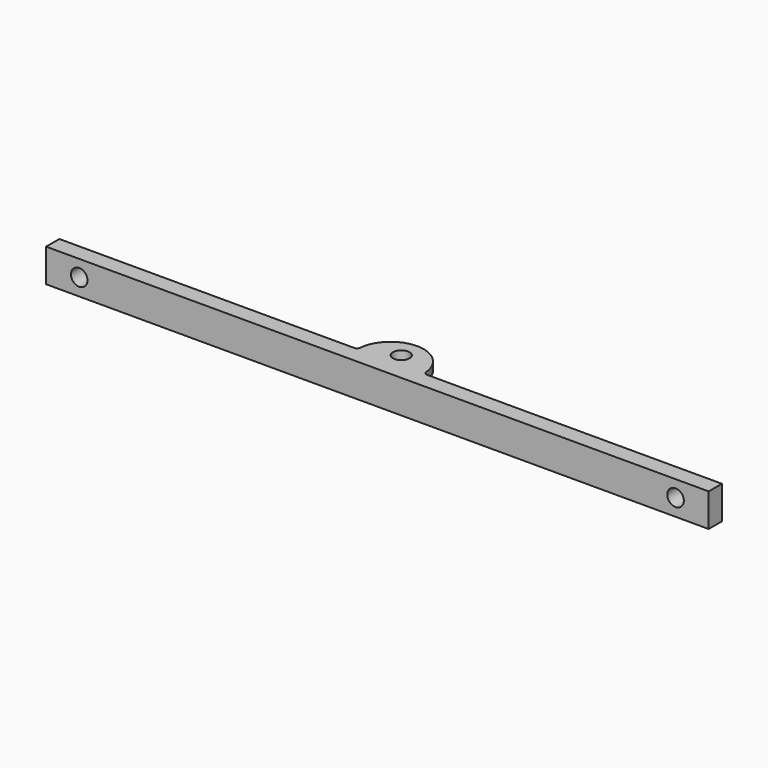
from build123d import *

# Parameters (mm, degrees)
F1_DEPTH = 25.4
F2_R     = 6.35
F3_DEPTH = 25.401
F4_W     = 41.7305262923
F4_H     = 12.7
F5_DEPTH = 508.001
F6_R     = 2.54
F7_R     = 6.35
F8_DEPTH = 38.101


with BuildPart() as f1:
    # F0 (on Top) → F1 (new body)
    with BuildSketch(Plane.XY):
        Polygon((-254, -6.35), (254, -6.35), (254, 6.35), (25.4, 6.35), (-25.4, 6.35), (-254, 6.35), align=None)
        with BuildLine():
            Line((-25.4, 6.35), (25.4, 6.35))
            ThreePointArc((25.4, 6.35), (0, 31.75), (-25.4, 6.35))
        make_face()
    extrude(amount=F1_DEPTH)

    # F2 (on face) → F3 (cut, through all)
    with BuildSketch(Plane.XY.offset(25.4)):
        with Locations((0, 16.51)):
            Circle(F2_R)
    extrude(amount=-F3_DEPTH, mode=Mode.SUBTRACT)

    # F4 (on face) → F5 (cut, through all)
    with BuildSketch(Plane(origin=(-254, 0, 0), x_dir=(0, -1, 0), z_dir=(-1, 0, 0))):
        with Locations((-27.2152631462, 12.7)):
            Rectangle(F4_W, F4_H)
    extrude(amount=-F5_DEPTH, mode=Mode.SUBTRACT)

    # F6
    f6_edges = [f1.edges().sort_by_distance(p)[0] for p in [
        (-25.4, 6.35, 3.175),
        (-25.4, 6.35, 22.225),
        (25.4, 6.35, 22.225),
        (25.4, 6.35, 3.175),
    ]]
    fillet(f6_edges, radius=F6_R)

    # F7 (on face) → F8 (cut, through all)
    with BuildSketch(Plane.XZ.offset(6.35)):
        with Locations((-228.6, 12.921767283)):
            Circle(F7_R)
        with Locations((228.6, 12.921767283)):
            Circle(F7_R)
    extrude(amount=-F8_DEPTH, mode=Mode.SUBTRACT)


solid = f1.part
